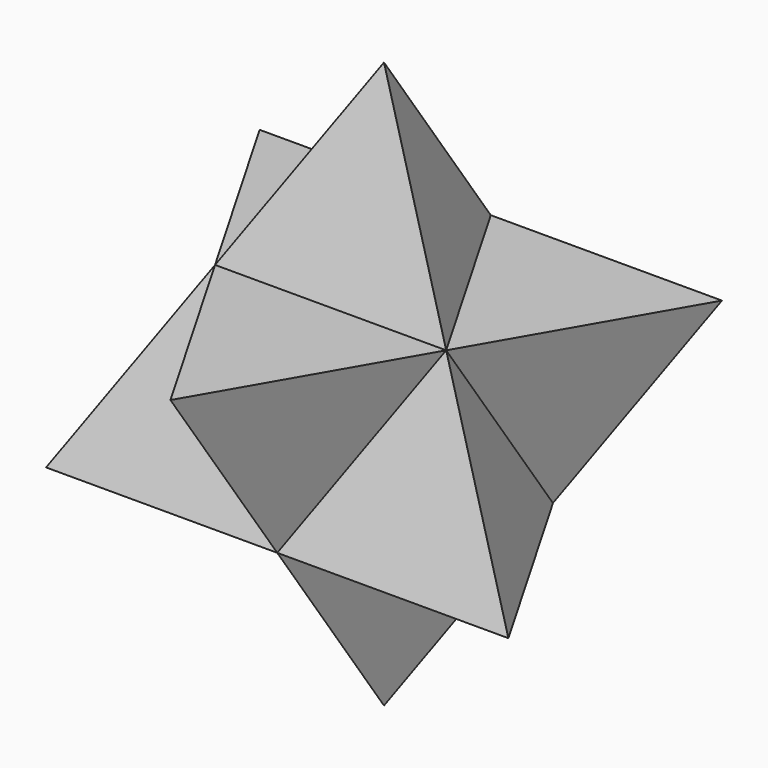
from build123d import *

# Parameters (mm, degrees)
F8_ANGLE = 60


with BuildPart() as f2:
    # F0 (on Top) → F2 section 0
    with BuildSketch(Plane.XY, mode=Mode.PRIVATE) as f2_s0:
        Polygon((0, 57.735026919), (-50, -28.8675134595), (50, -28.8675134595), align=None)
    loft([f2_s0.sketch, Vertex(0, 0, 81.6496580928)])


with BuildPart() as f7_1:
    # F7: instance of F2
    add(f2.part.mirror(Plane.XY))


with BuildPart() as f7_1_1:
    # F8: moved
    add(f7_1.part.rotate(Axis((0, 0, 40.8248290464), (0, 0, 1)), F8_ANGLE))


with BuildPart() as f7_1_2:
    # F10: moved
    add(f7_1_1.part.moved(Location((0, 0, 40.8248290464))))

    # F11: union F2
    add(f2.part)


solid = f7_1_2.part
